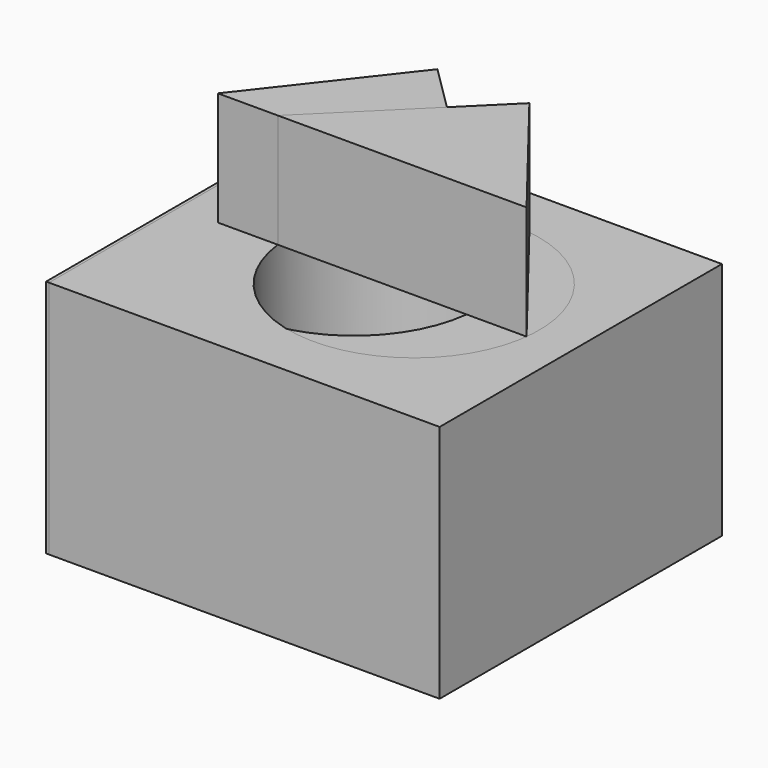
from build123d import *

# Parameters (mm, degrees)
F0_W     = 109.015446
F0_H     = 98.48763
F0_R     = 34.960956
F1_DEPTH = 66.802
F3_DEPTH = 31.75


with BuildPart() as f1:
    # F0 (on Top) → F1 (new body)
    with BuildSketch(Plane.XY):
        with Locations((-0.410335, -5.203914)):
            Rectangle(F0_W, F0_H)
        with Locations((-8.366811, -5.203914)):
            Circle(F0_R, mode=Mode.SUBTRACT)
    extrude(amount=F1_DEPTH)


with BuildPart() as f3:
    # F2 (on face) → F3 (new body)
    with BuildSketch(Plane.XY.offset(66.802)):
        Polygon((-12.829339, 29.471067), (-43.084222, -9.323362), (26.3506, -9.323362), align=None)
    extrude(amount=F3_DEPTH)


with BuildPart() as f4_1:
    # F4: instance of F3
    add(f3.part.mirror(Plane.YZ))


with BuildPart() as f4_2:
    # F4: instance of F1
    add(f1.part.mirror(Plane.YZ))


solid = Compound([f1.part, f3.part, f4_1.part, f4_2.part])
